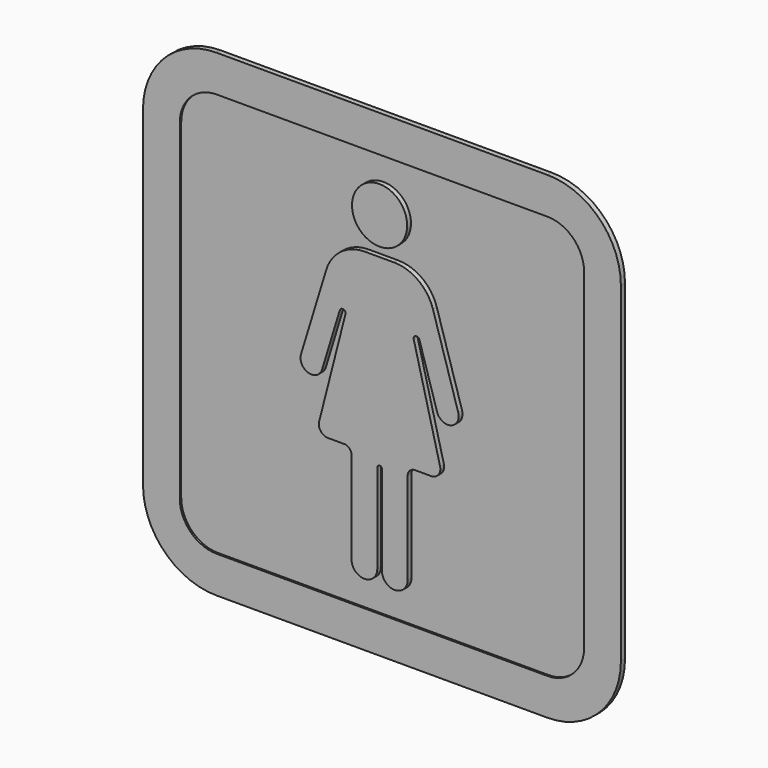
from build123d import *

# Parameters (mm, degrees)
F1_DEPTH = 0.9
F2_DEPTH = 0.5
F3_DEPTH = 1.3


with BuildPart() as f1:
    # F0 (on Front) → F1 (new body)
    with BuildSketch(Plane.XZ):
        with BuildLine():
            ThreePointArc((0, 20), (5.857864, 5.857864), (20, 0))
            Line((20, 0), (65, 0))
            Line((65, 0), (110, 0))
            ThreePointArc((110, 0), (124.142136, 5.857864), (130, 20))
            Line((130, 20), (130, 110))
            ThreePointArc((130, 110), (124.142136, 124.142136), (110, 130))
            Line((110, 130), (65, 130))
            Line((65, 130), (20, 130))
            ThreePointArc((20, 130), (5.857864, 124.142136), (0, 110))
            Line((0, 110), (0, 20))
        make_face()
        with BuildLine():
            Line((65, 120), (110, 120))
            ThreePointArc((110, 120), (117.071068, 117.071068), (120, 110))
            Line((120, 110), (120, 20))
            ThreePointArc((120, 20), (117.071068, 12.928932), (110, 10))
            Line((110, 10), (65, 10))
            Line((65, 10), (20, 10))
            ThreePointArc((20, 10), (12.928932, 12.928932), (10, 20))
            Line((10, 20), (10, 110))
            ThreePointArc((10, 110), (12.928932, 117.071068), (20, 120))
            Line((20, 120), (65, 120))
        make_face(mode=Mode.SUBTRACT)
        with BuildLine():
            ThreePointArc((120, 110), (117.071068, 117.071068), (110, 120))
            Line((110, 120), (65, 120))
            Line((65, 120), (20, 120))
            ThreePointArc((20, 120), (12.928932, 117.071068), (10, 110))
            Line((10, 110), (10, 20))
            ThreePointArc((10, 20), (12.928932, 12.928932), (20, 10))
            Line((20, 10), (65, 10))
            Line((65, 10), (110, 10))
            ThreePointArc((110, 10), (117.071068, 12.928932), (120, 20))
            Line((120, 20), (120, 110))
        make_face()
        with BuildLine():
            ThreePointArc((50.480648, 88.216089), (54.456949, 93.842425), (61, 96))
            Line((61, 96), (65, 96))
            Line((65, 96), (69, 96))
            ThreePointArc((69, 96), (75.543051, 93.842425), (79.519352, 88.216089))
            Line((79.519352, 88.216089), (86.390087, 65.742927))
            ThreePointArc((86.390087, 65.742927), (84.398288, 61.996898), (80.652259, 63.988697))
            Line((80.652259, 63.988697), (75.828126, 79.767725))
            ThreePointArc((75.828126, 79.767725), (74.847274, 80.30417), (74.287869, 79.336229))
            Line((74.287869, 79.336229), (81.450841, 51.234772))
            ThreePointArc((81.450841, 51.234772), (81.002351, 49.083284), (79.028301, 48.117275))
            Line((79.028301, 48.117275), (74.628301, 48.117275))
            ThreePointArc((74.628301, 48.117275), (73.214088, 47.531488), (72.628301, 46.117275))
            Line((72.628301, 46.117275), (72.628301, 21.117275))
            ThreePointArc((72.628301, 21.117275), (69.128301, 17.617275), (65.628301, 21.117275))
            Line((65.628301, 21.117275), (65.628301, 45.488974))
            ThreePointArc((65.628301, 45.488974), (65.444276, 45.93325), (65, 46.117275))
            ThreePointArc((65, 46.117275), (64.555724, 45.93325), (64.371699, 45.488974))
            Line((64.371699, 45.488974), (64.371699, 21.117275))
            ThreePointArc((64.371699, 21.117275), (60.871699, 17.617275), (57.371699, 21.117275))
            Line((57.371699, 21.117275), (57.371699, 46.117275))
            ThreePointArc((57.371699, 46.117275), (56.785912, 47.531488), (55.371699, 48.117275))
            Line((55.371699, 48.117275), (50.971699, 48.117275))
            ThreePointArc((50.971699, 48.117275), (48.997649, 49.083284), (48.549159, 51.234772))
            Line((48.549159, 51.234772), (55.712131, 79.336229))
            ThreePointArc((55.712131, 79.336229), (55.152726, 80.30417), (54.171874, 79.767725))
            Line((54.171874, 79.767725), (49.347741, 63.988697))
            ThreePointArc((49.347741, 63.988697), (45.601712, 61.996898), (43.609913, 65.742927))
            Line((43.609913, 65.742927), (50.480648, 88.216089))
        make_face(mode=Mode.SUBTRACT)
        with BuildLine():
            ThreePointArc((65, 98.5), (57.5, 106), (65, 113.5))
            ThreePointArc((65, 113.5), (72.5, 106), (65, 98.5))
        make_face(mode=Mode.SUBTRACT)
        with BuildLine():
            Line((65, 96), (61, 96))
            ThreePointArc((61, 96), (54.456949, 93.842425), (50.480648, 88.216089))
            Line((50.480648, 88.216089), (43.609913, 65.742927))
            ThreePointArc((43.609913, 65.742927), (45.601712, 61.996898), (49.347741, 63.988697))
            Line((49.347741, 63.988697), (54.171874, 79.767725))
            ThreePointArc((54.171874, 79.767725), (55.152726, 80.30417), (55.712131, 79.336229))
            Line((55.712131, 79.336229), (48.549159, 51.234772))
            ThreePointArc((48.549159, 51.234772), (48.997649, 49.083284), (50.971699, 48.117275))
            Line((50.971699, 48.117275), (55.371699, 48.117275))
            ThreePointArc((55.371699, 48.117275), (56.785912, 47.531488), (57.371699, 46.117275))
            Line((57.371699, 46.117275), (57.371699, 21.117275))
            ThreePointArc((57.371699, 21.117275), (60.871699, 17.617275), (64.371699, 21.117275))
            Line((64.371699, 21.117275), (64.371699, 45.488974))
            ThreePointArc((64.371699, 45.488974), (64.555724, 45.93325), (65, 46.117275))
            ThreePointArc((65, 46.117275), (65.444276, 45.93325), (65.628301, 45.488974))
            Line((65.628301, 45.488974), (65.628301, 21.117275))
            ThreePointArc((65.628301, 21.117275), (69.128301, 17.617275), (72.628301, 21.117275))
            Line((72.628301, 21.117275), (72.628301, 46.117275))
            ThreePointArc((72.628301, 46.117275), (73.214088, 47.531488), (74.628301, 48.117275))
            Line((74.628301, 48.117275), (79.028301, 48.117275))
            ThreePointArc((79.028301, 48.117275), (81.002351, 49.083284), (81.450841, 51.234772))
            Line((81.450841, 51.234772), (74.287869, 79.336229))
            ThreePointArc((74.287869, 79.336229), (74.847274, 80.30417), (75.828126, 79.767725))
            Line((75.828126, 79.767725), (80.652259, 63.988697))
            ThreePointArc((80.652259, 63.988697), (84.398288, 61.996898), (86.390087, 65.742927))
            Line((86.390087, 65.742927), (79.519352, 88.216089))
            ThreePointArc((79.519352, 88.216089), (75.543051, 93.842425), (69, 96))
            Line((69, 96), (65, 96))
        make_face()
        with BuildLine():
            ThreePointArc((65, 98.5), (72.5, 106), (65, 113.5))
            ThreePointArc((65, 113.5), (57.5, 106), (65, 98.5))
        make_face()
    extrude(amount=-F1_DEPTH)

    # F0 (on Front) → F2 (join)
    with BuildSketch(Plane.XZ):
        with BuildLine():
            ThreePointArc((0, 20), (5.857864, 5.857864), (20, 0))
            Line((20, 0), (65, 0))
            Line((65, 0), (110, 0))
            ThreePointArc((110, 0), (124.142136, 5.857864), (130, 20))
            Line((130, 20), (130, 110))
            ThreePointArc((130, 110), (124.142136, 124.142136), (110, 130))
            Line((110, 130), (65, 130))
            Line((65, 130), (20, 130))
            ThreePointArc((20, 130), (5.857864, 124.142136), (0, 110))
            Line((0, 110), (0, 20))
        make_face()
        with BuildLine():
            Line((65, 120), (110, 120))
            ThreePointArc((110, 120), (117.071068, 117.071068), (120, 110))
            Line((120, 110), (120, 20))
            ThreePointArc((120, 20), (117.071068, 12.928932), (110, 10))
            Line((110, 10), (65, 10))
            Line((65, 10), (20, 10))
            ThreePointArc((20, 10), (12.928932, 12.928932), (10, 20))
            Line((10, 20), (10, 110))
            ThreePointArc((10, 110), (12.928932, 117.071068), (20, 120))
            Line((20, 120), (65, 120))
        make_face(mode=Mode.SUBTRACT)
    extrude(amount=F2_DEPTH)

    # F0 (on Front) → F3 (join)
    with BuildSketch(Plane.XZ):
        with BuildLine():
            ThreePointArc((65, 98.5), (72.5, 106), (65, 113.5))
            ThreePointArc((65, 113.5), (57.5, 106), (65, 98.5))
        make_face()
        with BuildLine():
            Line((65, 96), (61, 96))
            ThreePointArc((61, 96), (54.456949, 93.842425), (50.480648, 88.216089))
            Line((50.480648, 88.216089), (43.609913, 65.742927))
            ThreePointArc((43.609913, 65.742927), (45.601712, 61.996898), (49.347741, 63.988697))
            Line((49.347741, 63.988697), (54.171874, 79.767725))
            ThreePointArc((54.171874, 79.767725), (55.152726, 80.30417), (55.712131, 79.336229))
            Line((55.712131, 79.336229), (48.549159, 51.234772))
            ThreePointArc((48.549159, 51.234772), (48.997649, 49.083284), (50.971699, 48.117275))
            Line((50.971699, 48.117275), (55.371699, 48.117275))
            ThreePointArc((55.371699, 48.117275), (56.785912, 47.531488), (57.371699, 46.117275))
            Line((57.371699, 46.117275), (57.371699, 21.117275))
            ThreePointArc((57.371699, 21.117275), (60.871699, 17.617275), (64.371699, 21.117275))
            Line((64.371699, 21.117275), (64.371699, 45.488974))
            ThreePointArc((64.371699, 45.488974), (64.555724, 45.93325), (65, 46.117275))
            ThreePointArc((65, 46.117275), (65.444276, 45.93325), (65.628301, 45.488974))
            Line((65.628301, 45.488974), (65.628301, 21.117275))
            ThreePointArc((65.628301, 21.117275), (69.128301, 17.617275), (72.628301, 21.117275))
            Line((72.628301, 21.117275), (72.628301, 46.117275))
            ThreePointArc((72.628301, 46.117275), (73.214088, 47.531488), (74.628301, 48.117275))
            Line((74.628301, 48.117275), (79.028301, 48.117275))
            ThreePointArc((79.028301, 48.117275), (81.002351, 49.083284), (81.450841, 51.234772))
            Line((81.450841, 51.234772), (74.287869, 79.336229))
            ThreePointArc((74.287869, 79.336229), (74.847274, 80.30417), (75.828126, 79.767725))
            Line((75.828126, 79.767725), (80.652259, 63.988697))
            ThreePointArc((80.652259, 63.988697), (84.398288, 61.996898), (86.390087, 65.742927))
            Line((86.390087, 65.742927), (79.519352, 88.216089))
            ThreePointArc((79.519352, 88.216089), (75.543051, 93.842425), (69, 96))
            Line((69, 96), (65, 96))
        make_face()
    extrude(amount=F3_DEPTH)


solid = f1.part
